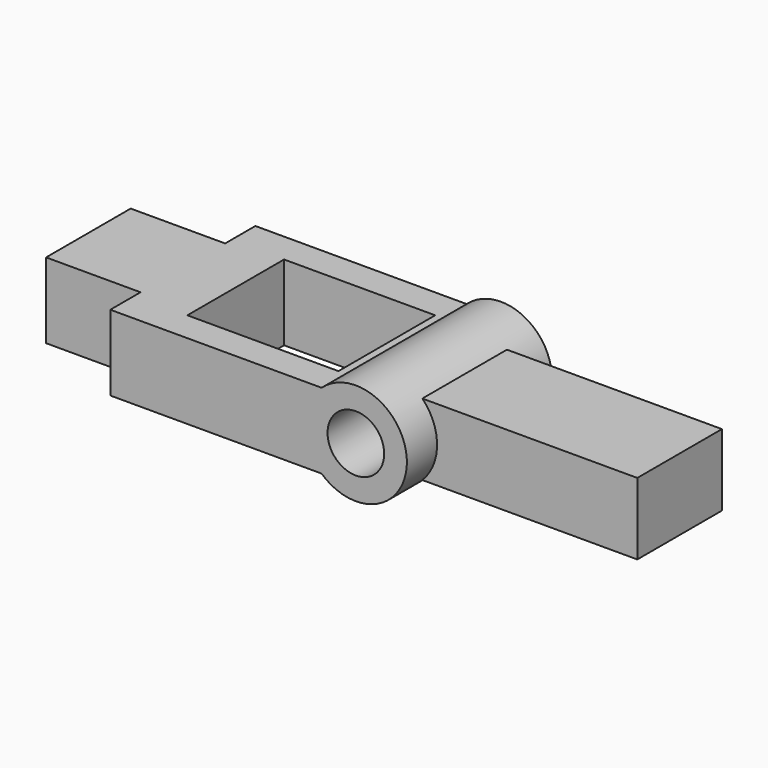
from build123d import *

# Parameters (mm, degrees)
F0_R     = 1.5
F1_DEPTH = 4.8
F0_W     = 5
F0_H     = 4
F2_DEPTH = 2.8
F3_W     = 8
F3_H     = 6.4
F4_DEPTH = 4.701


with BuildPart() as f1:
    # F0 (on Front) → F1 (new body, symmetric)
    with BuildSketch(Plane.XZ):
        with BuildLine():
            Line((-13, -2), (-1.8138357147, -2))
            ThreePointArc((-1.8138357147, -2), (0.0723180492, -2.6990313262), (1.9183326093, -1.9))
            ThreePointArc((1.9183326093, -1.9), (2.7, 0), (1.9183326093, 1.9))
            ThreePointArc((1.9183326093, 1.9), (0.0723180492, 2.6990313262), (-1.8138357147, 2))
            Line((-1.8138357147, 2), (-13, 2))
            Line((-13, 2), (-13, -2))
        make_face()
        Circle(F0_R, mode=Mode.SUBTRACT)
    extrude(amount=F1_DEPTH, both=True)

    # F0 (on Front) → F2 (join, symmetric)
    with BuildSketch(Plane.XZ):
        with BuildLine():
            ThreePointArc((1.9183326093, 1.9), (2.7, 0), (1.9183326093, -1.9))
            Line((1.9183326093, -1.9), (13.3, -1.9))
            Line((13.3, -1.9), (13.3, 1.9))
            Line((13.3, 1.9), (1.9183326093, 1.9))
        make_face()
        with Locations((-15.5, 0)):
            Rectangle(F0_W, F0_H)
    extrude(amount=F2_DEPTH, both=True)

    # F3 (on face) → F4 (cut, through all)
    with BuildSketch(Plane.XY.offset(2)):
        with Locations((-6.2, 0)):
            Rectangle(F3_W, F3_H)
    extrude(amount=-F4_DEPTH, mode=Mode.SUBTRACT)


solid = f1.part
